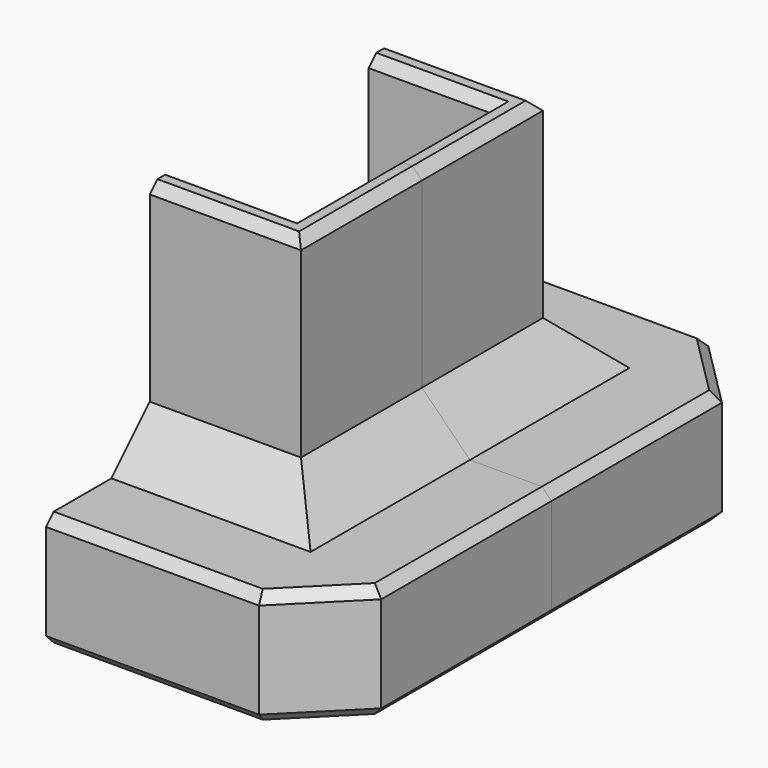
from build123d import *

# Parameters (mm, degrees)
PAD_DEPTH       = 12
SKETCH001_W     = 12.75
SKETCH001_H     = 12.75
POCKET_DEPTH    = 5
PAD001_DEPTH    = 25
SKETCH003_R     = 11
POCKET001_DEPTH = 5
CHAMFER_SIZE    = 5
SKETCH004_R     = 1.3
POCKET002_DEPTH = 9
CHAMFER001_SIZE = 1
CHAMFER002_SIZE = 1


with BuildPart() as obj1:
    # Sketch → Pad (new body)
    with BuildSketch(Plane.XY):
        Polygon((0, 0), (-29.25, 0), (-29.25, 22.178932), (-22.178932, 29.25), (0, 29.25), align=None)
    extrude(amount=PAD_DEPTH)

    # Sketch001 (on Face7 of Pad) → Pocket (cut)
    with BuildSketch(Plane.XY.offset(12)):
        with Locations((-6.375, 6.375)):
            Rectangle(SKETCH001_W, SKETCH001_H)
    extrude(amount=-POCKET_DEPTH, mode=Mode.SUBTRACT)

    # Sketch002 (on Face4 of Pocket) → Pad001 (join)
    with BuildSketch(Plane.XY.offset(12)):
        Polygon((0, 12.75), (0, 15.75), (-15.75, 15.75), (-15.75, 0), (-12.75, 0), (-12.75, 12.75), align=None)
    extrude(amount=PAD001_DEPTH)

    # Sketch003 (on Face2 of Pad001) → Pocket001 (cut)
    with BuildSketch(Plane(origin=(0, 0, 0), x_dir=(1, 0, 0), z_dir=(0, 0, -1))):
        with Locations((-15.25, -15.25)):
            Circle(SKETCH003_R)
    extrude(amount=-POCKET001_DEPTH, mode=Mode.SUBTRACT)

    # Chamfer
    chamfer_edges = [obj1.edges().sort_by_distance(p)[0] for p in [
        (-7.875, 15.75, 12),
        (-15.75, 7.875, 12),
    ]]
    chamfer(chamfer_edges, length=CHAMFER_SIZE)

    # Sketch004 (on Face18 of Pocket001) → Pocket002 (cut)
    with BuildSketch(Plane(origin=(0, 0, 5), x_dir=(1, 0, 0), z_dir=(0, 0, -1))):
        with Locations((-15.25, -15.25)):
            Circle(SKETCH004_R)
    extrude(amount=-POCKET002_DEPTH, mode=Mode.SUBTRACT)

    # Chamfer001
    chamfer001_edges = [obj1.edges().sort_by_distance(p)[0] for p in [
        (-7.875, 15.75, 37),
        (-15.75, 7.875, 37),
        (-6.375, 12.75, 37),
        (-12.75, 6.375, 37),
    ]]
    chamfer(chamfer001_edges, length=CHAMFER001_SIZE)

    # Chamfer002
    chamfer002_edges = [obj1.edges().sort_by_distance(p)[0] for p in [
        (-11.089466, 29.25, 12),
        (-25.714466, 25.714466, 12),
        (-29.25, 11.089466, 12),
        (-29.25, 11.089466, 0),
        (-25.714466, 25.714466, 0),
        (-11.089466, 29.25, 0),
    ]]
    chamfer(chamfer002_edges, length=CHAMFER002_SIZE)


with BuildPart() as part_mirroring001:
    # Part__Mirroring001: instance of obj1
    add(obj1.part.mirror(Plane(origin=(0, 0, 0), x_dir=(0, -1, 0), z_dir=(1, 0, 0))))


with BuildPart() as part_mirroring:
    # Part__Mirroring: instance of obj1
    add(obj1.part.mirror(Plane(origin=(0, 0, 0), x_dir=(1, 0, 0), z_dir=(0, 1, 0))))


with BuildPart() as part_mirroring002:
    # Part__Mirroring002: instance of Part__Mirroring
    add(part_mirroring.part.mirror(Plane(origin=(0, 0, 0), x_dir=(0, -1, 0), z_dir=(1, 0, 0))))


solid = Compound([part_mirroring001.part, part_mirroring002.part])
